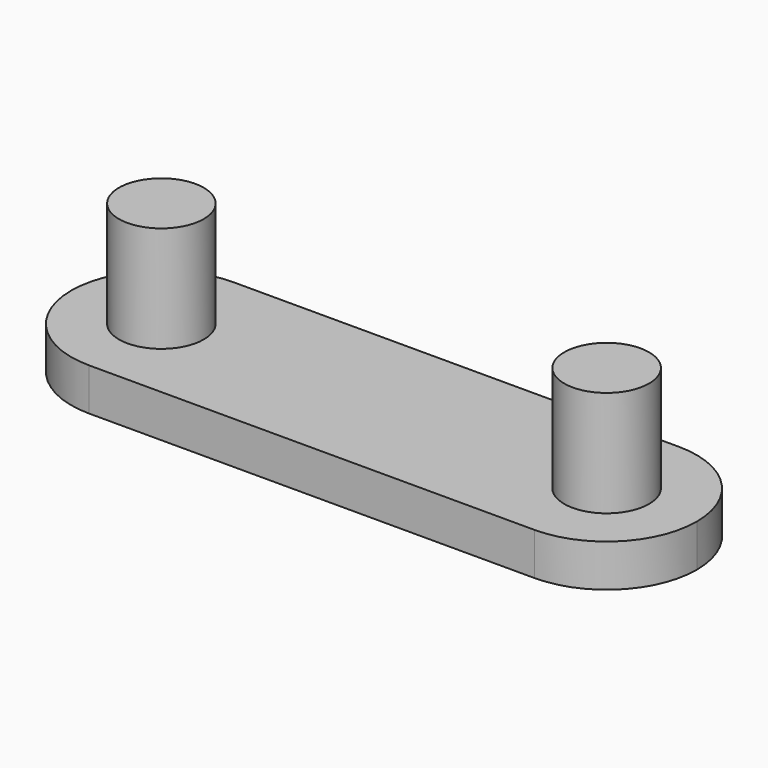
from build123d import *

# Parameters (mm, degrees)
F1_DEPTH = 2
F2_R     = 2
F3_DEPTH = 5


with BuildPart() as f1:
    # F0 (on Top) → F1 (new body)
    with BuildSketch(Plane.XY):
        with BuildLine():
            ThreePointArc((0, -4.25), (3.005204, -3.005204), (4.25, 0))
            ThreePointArc((4.25, 0), (3.005204, 3.005204), (0, 4.25))
            ThreePointArc((0, 4.25), (-4.25, 0), (0, -4.25))
        make_face()
        with BuildLine():
            ThreePointArc((0, 4.25), (3.005204, 3.005204), (4.25, 0))
            ThreePointArc((4.25, 0), (3.005204, -3.005204), (0, -4.25))
            Line((0, -4.25), (21, -4.25))
            ThreePointArc((21, -4.25), (16.75, 0), (21, 4.25))
            Line((21, 4.25), (0, 4.25))
        make_face()
        with BuildLine():
            ThreePointArc((25.25, 0), (24.005204, 3.005204), (21, 4.25))
            ThreePointArc((21, 4.25), (16.75, 0), (21, -4.25))
            ThreePointArc((21, -4.25), (24.005204, -3.005204), (25.25, 0))
        make_face()
    extrude(amount=F1_DEPTH)

    # F2 (on face) → F3 (join)
    with BuildSketch(Plane.XY.offset(2)):
        Circle(F2_R)
        with Locations((21, 0)):
            Circle(F2_R)
    extrude(amount=F3_DEPTH)


solid = f1.part
